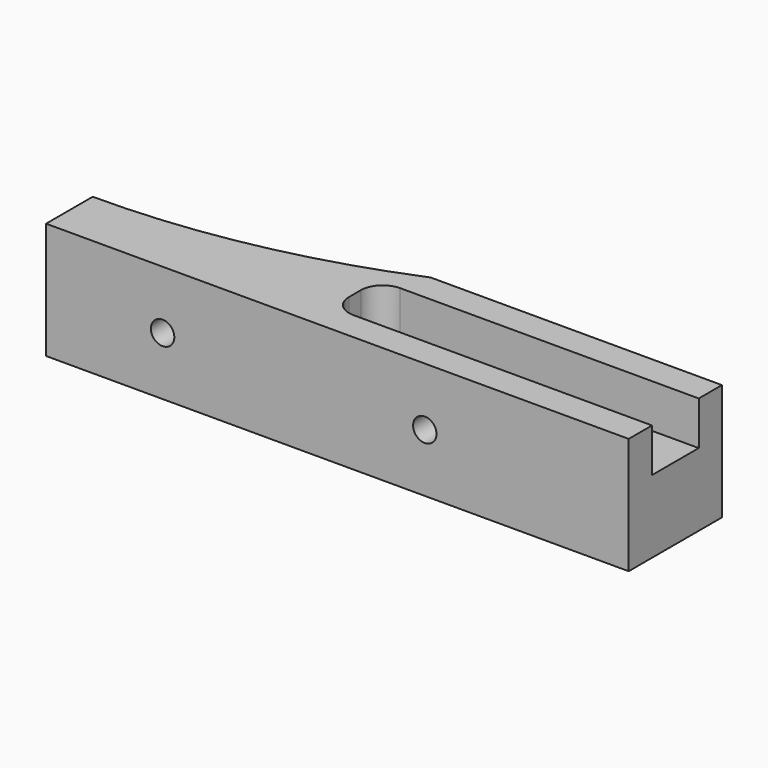
from build123d import *

# Parameters (mm, degrees)
F1_DEPTH = 25.4
F3_D     = 5.1054
F4_R     = 6.35
F5_DEPTH = 12.7
F6_W     = 69.85
F6_H     = 12.7381
F7_DEPTH = 9.525
F9_D     = 6.7564
F10_R    = 4.7625


with BuildPart() as f1:
    # F0 (on Top) → F1 (new body)
    with BuildSketch(Plane.XY):
        with BuildLine():
            Line((0, 12.7), (0, 0))
            Line((0, 0), (127, 0))
            Line((127, 0), (127, 25.4))
            Line((127, 25.4), (63.5, 25.4))
            ThreePointArc((63.5, 25.4), (32.3787739113, 15.9061304434), (0, 12.7))
        make_face()
    extrude(amount=F1_DEPTH)

    # F3 (through all)
    with Locations(Plane.XZ):
        with Locations((25.4, 12.7), (82.55, 12.7)):
            Hole(F3_D / 2)

    # F4 (on face) → F5 (cut)
    with BuildSketch(Plane(origin=(0, 25.4, 0), x_dir=(-1, 0, 0), z_dir=(0, 1, 0))):
        with Locations((-25.4, 12.7)):
            Circle(F4_R)
    extrude(amount=-F5_DEPTH, mode=Mode.SUBTRACT)

    # F6 (on face) → F7 (cut)
    with BuildSketch(Plane.XY.offset(25.4)):
        with Locations((92.075, 12.71905)):
            Rectangle(F6_W, F6_H)
    extrude(amount=-F7_DEPTH, mode=Mode.SUBTRACT)

    # F9 (through all)
    with Locations(Plane.XY.offset(25.4)):
        with Locations((73.025, 12.71905), (111.125, 12.71905)):
            Hole(F9_D / 2)

    # F10
    f10_edges = [f1.edges().sort_by_distance(p)[0] for p in [
        (57.15, 19.0881, 20.6375),
        (57.15, 6.35, 20.6375),
    ]]
    fillet(f10_edges, radius=F10_R)


solid = f1.part
